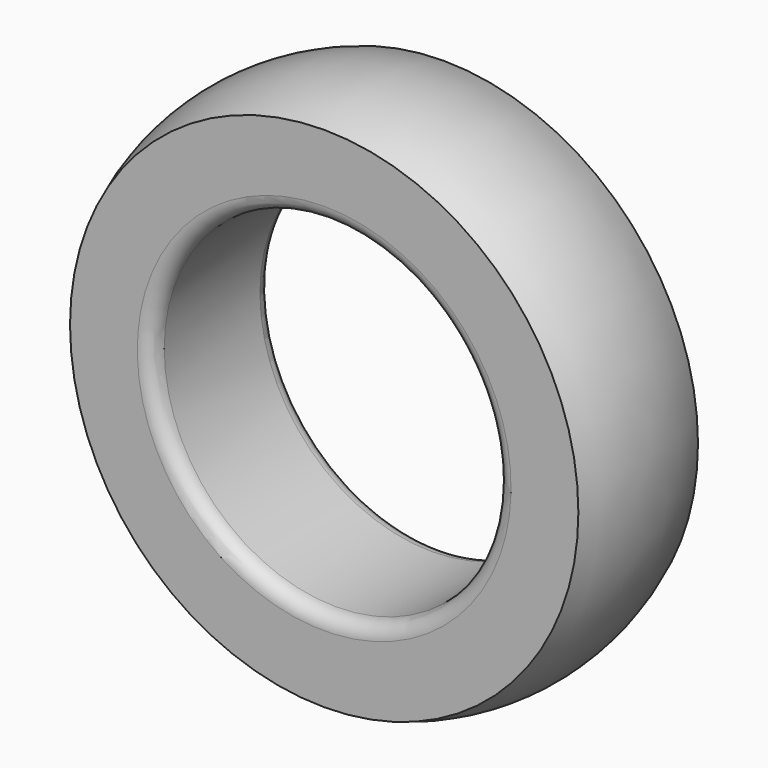
from build123d import *

# Parameters (mm, degrees)
F2_R = 1


with BuildPart() as f1:
    # F0 (on Right) → F1 (revolve)
    with BuildSketch(Plane.YZ):
        with BuildLine():
            Line((-5, 11.5), (5, 11.5))
            Line((5, 11.5), (5, 17))
            ThreePointArc((5, 17), (0, 18), (-5, 17))
            Line((-5, 17), (-5, 11.5))
        make_face()
    revolve(axis=Axis((0, 0, 0), (0, 1, 0)))

    # F2
    f2_edges = [f1.edges().sort_by_distance(p)[0] for p in [
        (0, -5, -11.5),
        (0, 5, -11.5),
        (0, 0, 11.5),
    ]]
    fillet(f2_edges, radius=F2_R)


solid = f1.part
